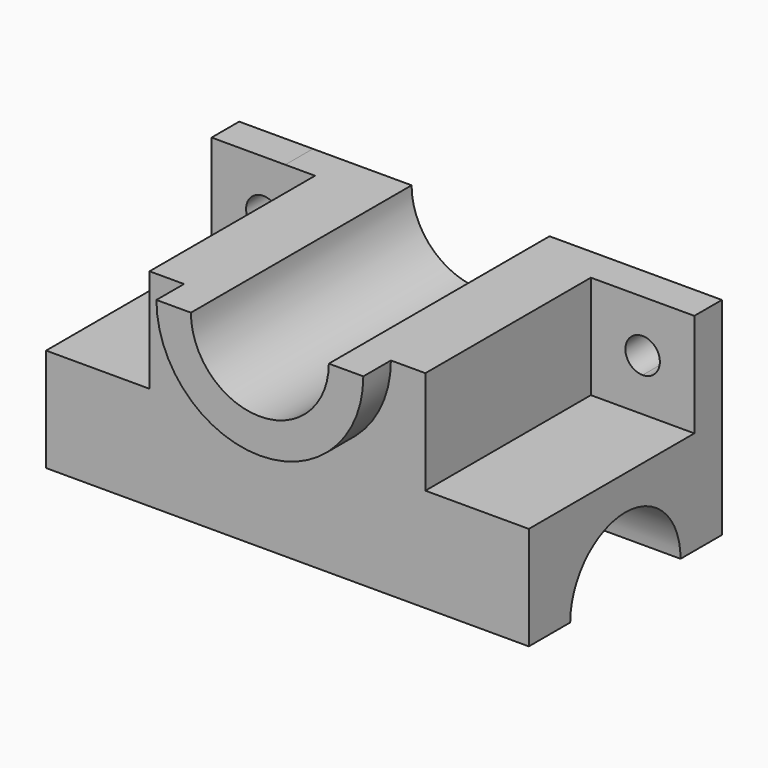
from build123d import *

# Parameters (mm, degrees)
F0_W      = 140
F0_H      = 70
F1_DEPTH  = 60
F2_R      = 20
F3_DEPTH  = 144.4
F4_W      = 30
F4_H      = 60
F5_DEPTH  = 30
F7_DEPTH  = 25
F8_R      = 30
F9_DEPTH  = 80
F10_R     = 20
F11_DEPTH = 80
F12_W     = 39.848283
F12_H     = 31.382198
F13_DEPTH = 80
F14_W     = 48.629179
F14_H     = 31.993205
F15_DEPTH = 80
F16_W     = 30
F16_H     = 60
F17_DEPTH = 30
F19_DEPTH = 10


with BuildPart() as f1:
    # F0 (on Top) → F1 (new body)
    with BuildSketch(Plane.XY):
        with Locations((-6.793272, 9.692355)):
            Rectangle(F0_W, F0_H)
    extrude(amount=F1_DEPTH)

    # F2 (on face) → F3 (cut)
    with BuildSketch(Plane.YZ.offset(63.206728)):
        with Locations((9.692355, 0)):
            Circle(F2_R)
    extrude(amount=-F3_DEPTH, mode=Mode.SUBTRACT)

    # F4 (on face) → F5 (cut)
    with BuildSketch(Plane.XY.offset(60)):
        with Locations((48.206728, 4.692355)):
            Rectangle(F4_W, F4_H)
    extrude(amount=-F5_DEPTH, mode=Mode.SUBTRACT)

    # F6 (on face) → F7 (cut)
    with BuildSketch(Plane.XZ.offset(-34.692355)):
        with BuildLine():
            ThreePointArc((53.206728, 45), (44.671194, 48.535534), (48.206728, 40))
            ThreePointArc((48.206728, 40), (51.742262, 41.464466), (53.206728, 45))
        make_face()
    extrude(amount=-F7_DEPTH, mode=Mode.SUBTRACT)

    # F8 (on face) → F9 (join)
    with BuildSketch(Plane(origin=(0, 44.692355, 0), x_dir=(-1, 0, 0), z_dir=(0, 1, 0))):
        with Locations((6.793272, 60)):
            Circle(F8_R)
    extrude(amount=-F9_DEPTH)

    # F10 (on face) → F11 (cut)
    with BuildSketch(Plane.XZ.offset(35.307645)):
        with Locations((-6.793272, 60)):
            Circle(F10_R)
    extrude(amount=-F11_DEPTH, mode=Mode.SUBTRACT)

    # F12 (on face) → F13 (cut)
    with BuildSketch(Plane.XZ.offset(35.307645)):
        with Locations((13.130869, 75.691099)):
            Rectangle(F12_W, F12_H)
    extrude(amount=-F13_DEPTH, mode=Mode.SUBTRACT)

    # F14 (on face) → F15 (cut)
    with BuildSketch(Plane.XZ.offset(35.307645)):
        with Locations((-31.107861, 75.996602)):
            Rectangle(F14_W, F14_H)
    extrude(amount=-F15_DEPTH, mode=Mode.SUBTRACT)

    # F16 (on face) → F17 (cut)
    with BuildSketch(Plane.XY.offset(60)):
        with Locations((-61.793272, 4.692355)):
            Rectangle(F16_W, F16_H)
    extrude(amount=-F17_DEPTH, mode=Mode.SUBTRACT)

    # F18 (on face) → F19 (cut)
    with BuildSketch(Plane.XZ.offset(-34.692355)):
        with BuildLine():
            ThreePointArc((-61.793272, 50), (-65.328806, 41.464466), (-56.793272, 45))
            ThreePointArc((-56.793272, 45), (-58.257738, 48.535534), (-61.793272, 50))
        make_face()
    extrude(amount=-F19_DEPTH, mode=Mode.SUBTRACT)


solid = f1.part
